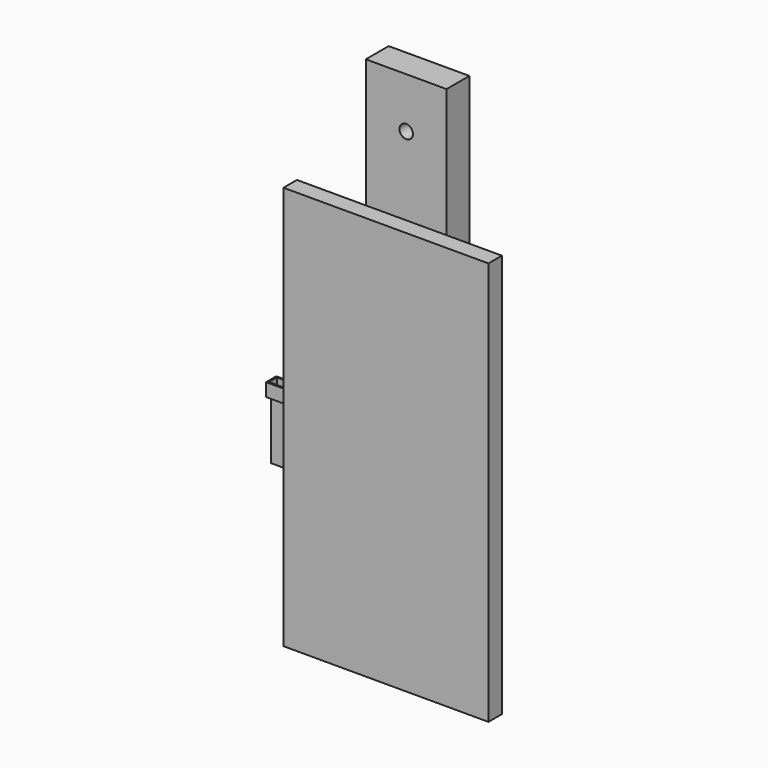
from build123d import *

# Parameters (mm, degrees)
F0_W      = 15.2
F0_H      = 22
F1_DEPTH  = 1.9
F2_W      = 15.2
F2_H      = 3.9
F3_DEPTH  = 1.9
F4_W      = 6.5
F4_H      = 6.5
F5_DEPTH  = 0.6
F6_W      = 14.117376
F6_H      = 2.906029
F7_DEPTH  = 3
F8_W      = 24
F8_H      = 150
F8_R      = 2
F9_DEPTH  = 8.5
F11_DEPTH = 42
F12_R     = 1.5
F13_DEPTH = 25
F14_W     = 60.94168
F14_H     = 120
F15_DEPTH = 5


with BuildPart() as f1:
    # F0 (on Front) → F1 (new body)
    with BuildSketch(Plane.XZ):
        with Locations((0, 0.162964)):
            Rectangle(F0_W, F0_H)
    extrude(amount=F1_DEPTH)

    # F2 (on face) → F3 (join)
    with BuildSketch(Plane.XZ.offset(1.9)):
        with Locations((0, 9.212964)):
            Rectangle(F2_W, F2_H)
    extrude(amount=F3_DEPTH)

    # F4 (on face) → F5 (join)
    with BuildSketch(Plane.XZ.offset(1.9)):
        with Locations((0, -3.187036)):
            Rectangle(F4_W, F4_H)
    extrude(amount=F5_DEPTH)

    # F6 (on face) → F7 (cut)
    with BuildSketch(Plane.XY.offset(11.162964)):
        with Locations((-0.06202, -1.861931)):
            Rectangle(F6_W, F6_H)
    extrude(amount=-F7_DEPTH, mode=Mode.SUBTRACT)


with BuildPart() as f9:
    # F8 (on Front) → F9 (new body)
    with BuildSketch(Plane.XZ):
        with Locations((37.813129, 33.440546)):
            Rectangle(F8_W, F8_H)
        with Locations((37.813129, -26.559454)):
            Circle(F8_R, mode=Mode.SUBTRACT)
        with Locations((37.813129, 13.440546)):
            Circle(F8_R, mode=Mode.SUBTRACT)
        with Locations((37.813129, 93.440546)):
            Circle(F8_R, mode=Mode.SUBTRACT)
        with Locations((37.813129, 53.440546)):
            Circle(F8_R, mode=Mode.SUBTRACT)
    extrude(amount=F9_DEPTH)


with BuildPart() as f11:
    # F10 (on Top) → F11 (new body)
    with BuildSketch(Plane.XY):
        Polygon((50.294616, -21.19773), (38.294616, -21.19773), (26.294616, -21.19773), (26.294616, -14.69773), (18.294616, -14.69773), (18.294616, -24.69773), (38.294616, -24.69773), (58.294616, -24.69773), (58.294616, -14.69773), (50.294616, -14.69773), align=None)
    extrude(amount=F11_DEPTH)

    # F12 (on face) → F13 (cut)
    with BuildSketch(Plane.XZ.offset(24.69773)):
        with Locations((24.294616, 28.5)):
            Circle(F12_R)
        with Locations((52.294616, 28.5)):
            Circle(F12_R)
        with Locations((52.294616, 13.5)):
            Circle(F12_R)
        with Locations((24.294616, 13.5)):
            Circle(F12_R)
    extrude(amount=-F13_DEPTH, mode=Mode.SUBTRACT)


with BuildPart() as f15:
    # F14 (on face) → F15 (new body)
    with BuildSketch(Plane.XZ.offset(24.69773)):
        with Locations((48.765456, 21)):
            Rectangle(F14_W, F14_H)
    extrude(amount=F15_DEPTH)


solid = Compound([f1.part, f9.part, f11.part, f15.part])
